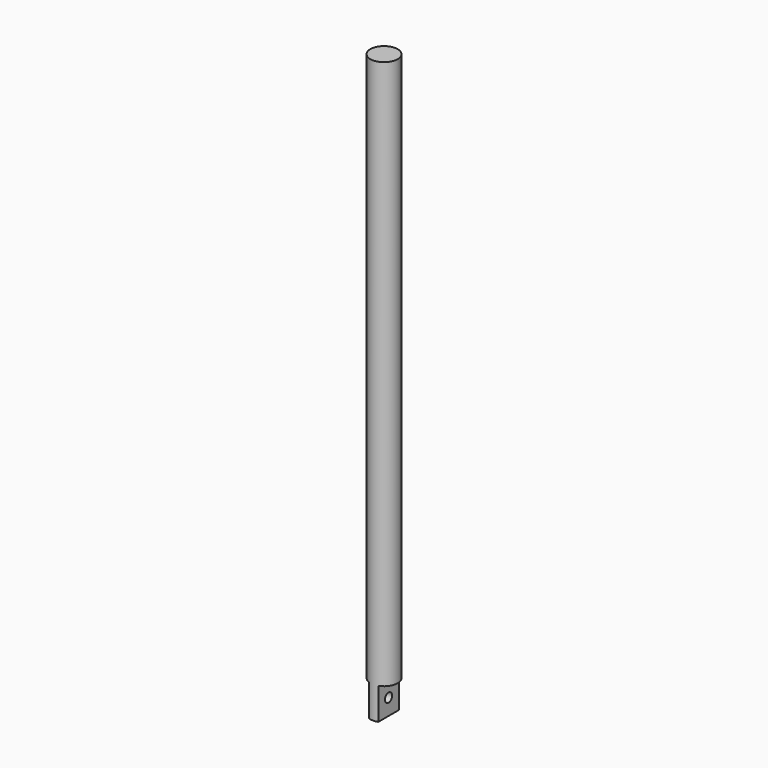
from build123d import *

# Parameters (mm, degrees)
F0_R     = 3
F1_DEPTH = 128
F2_W     = 2
F2_H     = 7
F3_DEPTH = 12.5
F4_R     = 1
F5_DEPTH = 50


with BuildPart() as f1:
    # F0 (on Top) → F1 (new body)
    with BuildSketch(Plane.XY):
        Circle(F0_R)
    extrude(amount=F1_DEPTH)

    # F2 (on Front) → F3 (cut, symmetric)
    with BuildSketch(Plane.XZ):
        with Locations((-2, 3.5)):
            Rectangle(F2_W, F2_H)
        with Locations((2, 3.5)):
            Rectangle(F2_W, F2_H)
    extrude(amount=F3_DEPTH, both=True, mode=Mode.SUBTRACT)

    # F4 (on Right) → F5 (cut, symmetric)
    with BuildSketch(Plane.YZ):
        with Locations((0, 3.561988)):
            Circle(F4_R)
    extrude(amount=F5_DEPTH, both=True, mode=Mode.SUBTRACT)


solid = f1.part
